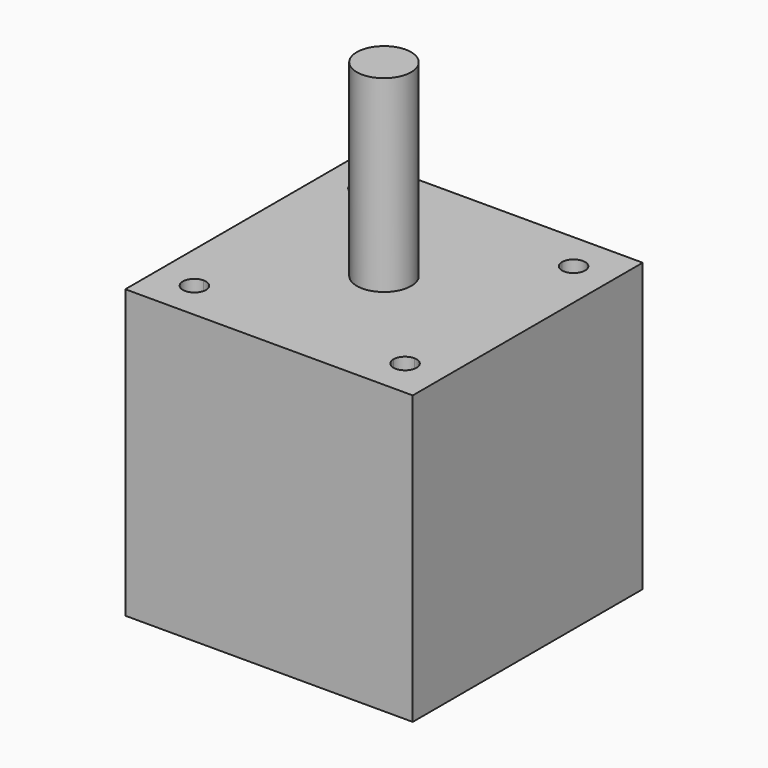
from build123d import *

# Parameters (mm, degrees)
F0_W     = 42.3
F0_H     = 42.3
F0_R     = 4
F1_DEPTH = 42.3
F2_DEPTH = 70


with BuildPart() as f1:
    # F0 (on Top) → F1 (new body)
    with BuildSketch(Plane.XY):
        Rectangle(F0_W, F0_H)
        with BuildLine():
            ThreePointArc((-15.5, 13.8), (-16.702082, 16.702082), (-13.8, 15.5))
            Line((-13.8, 15.5), (13.8, 15.5))
            ThreePointArc((13.8, 15.5), (15.5, 17.2), (17.2, 15.5))
            ThreePointArc((17.2, 15.5), (16.702082, 14.297918), (15.5, 13.8))
            Line((15.5, 13.8), (15.5, -13.8))
            ThreePointArc((15.5, -13.8), (16.702082, -14.297918), (17.2, -15.5))
            ThreePointArc((17.2, -15.5), (15.5, -17.2), (13.8, -15.5))
            Line((13.8, -15.5), (-13.8, -15.5))
            ThreePointArc((-13.8, -15.5), (-16.702082, -16.702082), (-15.5, -13.8))
            Line((-15.5, -13.8), (-15.5, 13.8))
        make_face(mode=Mode.SUBTRACT)
        with BuildLine():
            Line((13.8, 15.5), (-13.8, 15.5))
            ThreePointArc((-13.8, 15.5), (-14.297918, 14.297918), (-15.5, 13.8))
            Line((-15.5, 13.8), (-15.5, -13.8))
            ThreePointArc((-15.5, -13.8), (-14.297918, -14.297918), (-13.8, -15.5))
            Line((-13.8, -15.5), (13.8, -15.5))
            ThreePointArc((13.8, -15.5), (14.297918, -14.297918), (15.5, -13.8))
            Line((15.5, -13.8), (15.5, 13.8))
            ThreePointArc((15.5, 13.8), (14.297918, 14.297918), (13.8, 15.5))
        make_face()
        Circle(F0_R, mode=Mode.SUBTRACT)
        Circle(F0_R)
    extrude(amount=F1_DEPTH)

    # F0 (on Top) → F2 (join)
    with BuildSketch(Plane.XY):
        Circle(F0_R)
    extrude(amount=F2_DEPTH)


solid = f1.part
